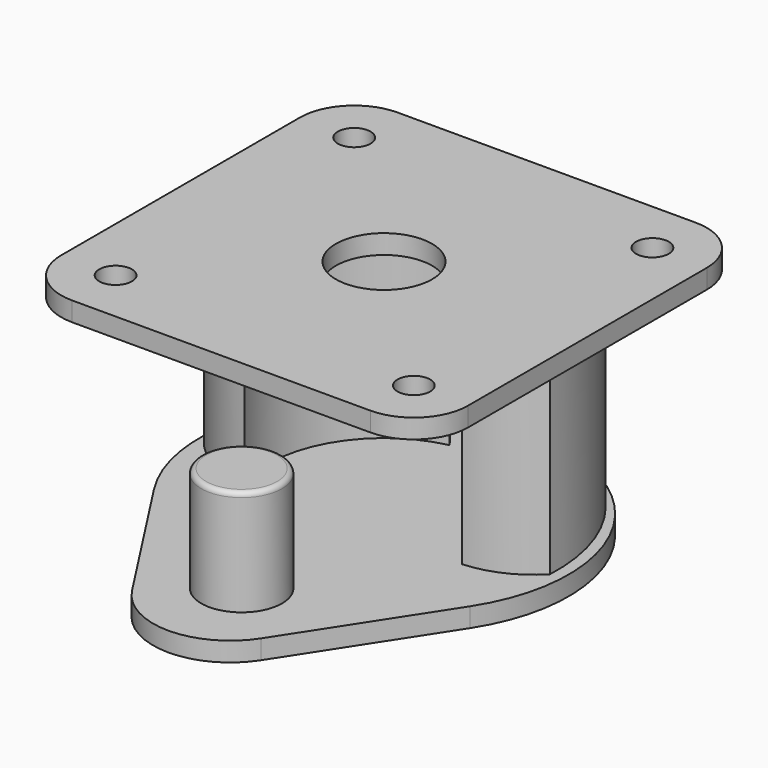
from build123d import *

# Parameters (mm, degrees)
SKETCH097_R   = 1.7
SKETCH097_R_2 = 5
PAD047_DEPTH  = 2
PAD048_DEPTH  = 20.4
PAD049_DEPTH  = 2
SKETCH100_R   = 4.2
PAD050_DEPTH  = 11
FILLET006_R   = 0.5


with BuildPart() as part:
    # Sketch097 → Pad047 (new body)
    with BuildSketch(Plane.XY):
        with BuildLine():
            ThreePointArc((-15.5, 21.15), (-19.495153, 19.495153), (-21.15, 15.5))
            Line((-21.15, 15.5), (-21.15, -15.5))
            ThreePointArc((-21.15, -15.5), (-19.495153, -19.495153), (-15.5, -21.15))
            Line((-15.5, -21.15), (15.5, -21.15))
            ThreePointArc((15.5, -21.15), (19.495153, -19.495153), (21.15, -15.5))
            Line((21.15, -15.5), (21.15, 15.500001))
            ThreePointArc((21.15, 15.500001), (19.495153, 19.495154), (15.5, 21.15))
            Line((15.5, 21.15), (-15.5, 21.15))
        make_face()
        with Locations((-15.5, 15.5)):
            Circle(SKETCH097_R, mode=Mode.SUBTRACT)
        with Locations((15.5, 15.5)):
            Circle(SKETCH097_R, mode=Mode.SUBTRACT)
        with Locations((15.5, -15.5)):
            Circle(SKETCH097_R, mode=Mode.SUBTRACT)
        with Locations((-15.5, -15.5)):
            Circle(SKETCH097_R, mode=Mode.SUBTRACT)
        Circle(SKETCH097_R_2, mode=Mode.SUBTRACT)
    extrude(amount=-PAD047_DEPTH)

    # Sketch098 (on Face15 of Pad047) → Pad048 (join)
    with BuildSketch(Plane(origin=(0, 0, -2), x_dir=(1, 0, 0), z_dir=(0, 0, -1))):
        with BuildLine():
            ThreePointArc((-11.319432, 3.983774), (-10.478372, -5.848394), (-2.551393, -11.72563))
            ThreePointArc((-8.66094, -15.779357), (-5.221239, -14.332635), (-2.551393, -11.72563))
            ThreePointArc((-17.976895, 0.911728), (-15.717559, -8.772591), (-8.66094, -15.779357))
            ThreePointArc((-11.319432, 3.983774), (-14.939874, 3.07992), (-17.976895, 0.911728))
        make_face()
        with BuildLine():
            ThreePointArc((2.551393, -11.72563), (5.221239, -14.332635), (8.66094, -15.779357))
            ThreePointArc((8.66094, -15.779357), (15.717559, -8.772591), (17.976895, 0.911728))
            ThreePointArc((17.976895, 0.911728), (14.939874, 3.07992), (11.319432, 3.983774))
            ThreePointArc((2.551393, -11.72563), (10.478372, -5.848394), (11.319432, 3.983774))
        make_face()
    extrude(amount=PAD048_DEPTH)

    # Sketch099 (on Face25 of Pad048) → Pad049 (join)
    with BuildSketch(Plane(origin=(0, 0, -22.4), x_dir=(1, 0, 0), z_dir=(0, 0, -1))):
        with BuildLine():
            Line((6.713127, 24.351313), (16.433224, 9.355322))
            ThreePointArc((2, -17.2), (17.112107, -8.213661), (16.433224, 9.355322))
            Line((-2, -17.2), (2, -17.2))
            ThreePointArc((-16.433224, 9.355322), (-17.112107, -8.213661), (-2, -17.2))
            Line((-6.713127, 24.351313), (-16.433224, 9.355322))
            ThreePointArc((6.713127, 24.351313), (0, 28), (-6.713127, 24.351313))
        make_face()
    extrude(amount=PAD049_DEPTH)

    # Sketch100 (on Face4 of Pad049) → Pad050 (join)
    with BuildSketch(Plane.XY.offset(-22.4)):
        with Locations((0, -18.5)):
            Circle(SKETCH100_R)
    extrude(amount=PAD050_DEPTH)

    # Fillet006
    fillet006_edges = [part.edges().sort_by_distance(p)[0] for p in [
        (-4.2, -18.5, -11.4),
    ]]
    fillet(fillet006_edges, radius=FILLET006_R)


with BuildPart() as part_1:
    # Body022 placement: moved
    add(part.part.moved(Location((0, 67.5, -92.5))))


solid = part_1.part
